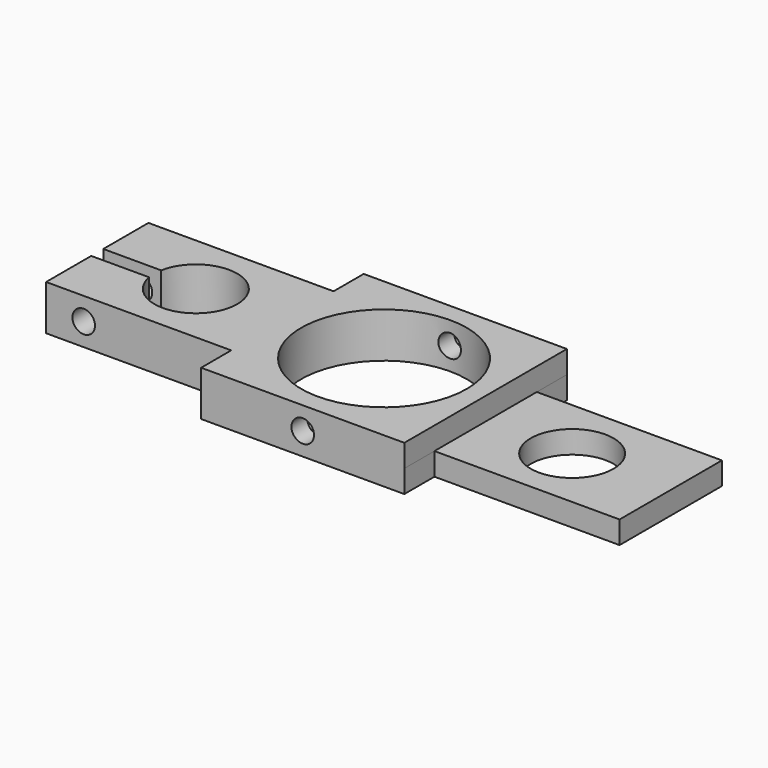
from build123d import *

# Parameters (mm, degrees)
F0_R     = 11
F0_R_2   = 5.5
F1_DEPTH = 6
F2_R     = 1.5
F3_DEPTH = 50.8
F4_W     = 54.249955
F4_H     = 32.60367
F5_DEPTH = 3


with BuildPart() as f1:
    # F0 (on Top) → F1 (new body)
    with BuildSketch(Plane.XY):
        with BuildLine():
            ThreePointArc((-30.408327, 1), (-19.5, 0), (-30.408327, -1))
            Line((-30.408327, -1), (-38.1, -1))
            Line((-38.1, -1), (-38.1, -8.5))
            Line((-38.1, -8.5), (-13.5, -8.5))
            Line((-13.5, -8.5), (-13.5, -13.5))
            Line((-13.5, -13.5), (13.5, -13.5))
            Line((13.5, -13.5), (13.5, -8.5))
            Line((13.5, -8.5), (38.1, -8.5))
            Line((38.1, -8.5), (38.1, 8.5))
            Line((38.1, 8.5), (13.5, 8.5))
            Line((13.5, 8.5), (13.5, 13.5))
            Line((13.5, 13.5), (-13.5, 13.5))
            Line((-13.5, 13.5), (-13.5, 8.5))
            Line((-13.5, 8.5), (-38.1, 8.5))
            Line((-38.1, 8.5), (-38.1, 1))
            Line((-38.1, 1), (-30.408327, 1))
        make_face()
        Circle(F0_R, mode=Mode.SUBTRACT)
        with Locations((25, 0)):
            Circle(F0_R_2, mode=Mode.SUBTRACT)
    extrude(amount=F1_DEPTH)

    # F2 (on face) → F3 (cut)
    with BuildSketch(Plane.XZ.offset(13.5)):
        with Locations((0, 3)):
            Circle(F2_R)
        with Locations((-33.1, 3)):
            Circle(F2_R)
    extrude(amount=-F3_DEPTH, mode=Mode.SUBTRACT)

    # F4 (on face) → F5 (cut)
    with BuildSketch(Plane.XY.offset(6)):
        with Locations((40.624977, -2.801835)):
            Rectangle(F4_W, F4_H)
    extrude(amount=-F5_DEPTH, mode=Mode.SUBTRACT)


solid = f1.part
